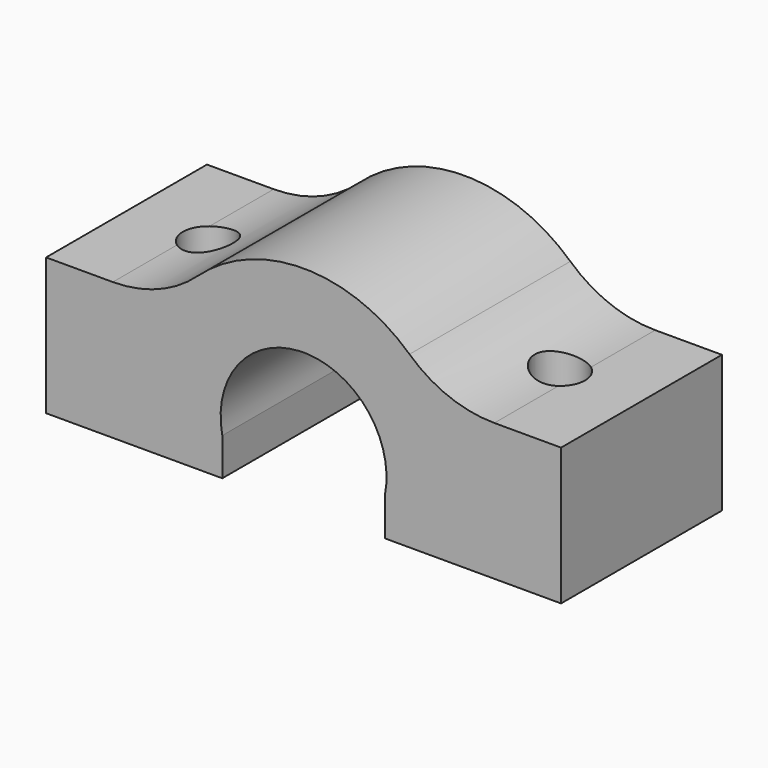
from build123d import *

# Parameters (mm, degrees)
F1_DEPTH = 8
F3_D     = 2
F3_DEPTH = 0.6618861731
F4_D     = 2
F5_DEPTH = 1.5


with BuildPart() as f1:
    # F0 (on Front) → F1 (new body)
    with BuildSketch(Plane.XZ):
        with BuildLine():
            ThreePointArc((0.1467019637, 3.2967375591), (2.6022180015, 2.0293992886), (3.2331454446, -0.6608861731))
            Line((3.2331454446, -0.6608861731), (10.2443375631, -0.6608861731))
            Line((10.2443375631, -0.6608861731), (10.2443375631, 3.2967375591))
            Line((10.2443375631, 3.2967375591), (7.589418496, 3.2967375591))
            ThreePointArc((7.589418496, 3.2967375591), (5.7792360743, 3.6359179316), (4.2146449918, 4.6074417191))
            ThreePointArc((4.2146449918, 4.6074417191), (0, 6.2443375631), (-4.2146449918, 4.6074417191))
            ThreePointArc((-4.2146449918, 4.6074417191), (-5.7792360743, 3.6359179316), (-7.589418496, 3.2967375591))
            Line((-7.589418496, 3.2967375591), (-10.2443375631, 3.2967375591))
            Line((-10.2443375631, 3.2967375591), (-10.2443375631, -0.6608861731))
            Line((-10.2443375631, -0.6608861731), (-3.2331454446, -0.6608861731))
            ThreePointArc((-3.2331454446, -0.6608861731), (-2.6022180015, 2.0293992886), (-0.1467019637, 3.2967375591))
            ThreePointArc((-0.1467019637, 3.2967375591), (0, 3.3), (0.1467019637, 3.2967375591))
        make_face()
    extrude(amount=F1_DEPTH)

    # F3 (through all, one way)
    with BuildSketch(Plane.XY):
        with Locations((-7, -4), (7, -4)):
            Circle(F3_D / 2)
    extrude(amount=-F3_DEPTH, mode=Mode.SUBTRACT)

    # F4 (through all)
    with Locations(Plane(origin=(0, 0, 0), x_dir=(1, 0, 0), z_dir=(0, 0, -1))):
        with Locations((-7, 4), (7, 4)):
            Hole(F4_D / 2)

    # F5 (add): faces of the model
    f5_faces = [f1.faces().sort_by_distance(p)[0] for p in [
        (3.3395206367, -4, -0.6608861731),
        (-10.137962371, -4, -0.6608861731),
    ]]
    extrude(f5_faces, amount=F5_DEPTH)


solid = f1.part
